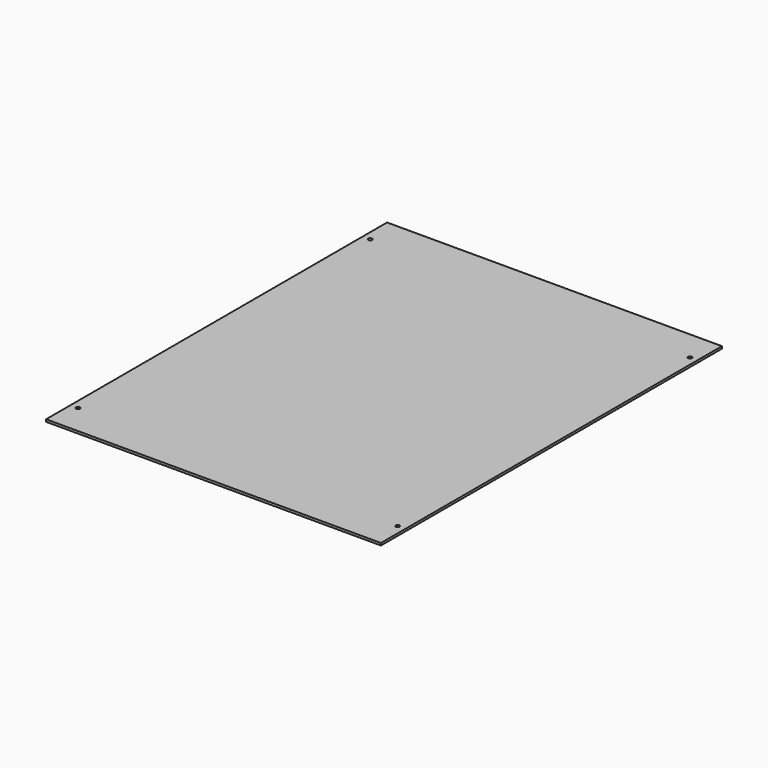
from build123d import *

# Parameters (mm, degrees)
SKETCH_W  = 440
SKETCH_H  = 560
SKETCH_R  = 2.5
PAD_DEPTH = 3


with BuildPart() as part:
    # Sketch → Pad (new body)
    with BuildSketch(Plane.XY):
        Rectangle(SKETCH_W, SKETCH_H)
        with Locations((-210, 240)):
            Circle(SKETCH_R, mode=Mode.SUBTRACT)
        with Locations((210, 240)):
            Circle(SKETCH_R, mode=Mode.SUBTRACT)
        with Locations((-210, -240)):
            Circle(SKETCH_R, mode=Mode.SUBTRACT)
        with Locations((210, -240)):
            Circle(SKETCH_R, mode=Mode.SUBTRACT)
    extrude(amount=PAD_DEPTH)


solid = part.part
